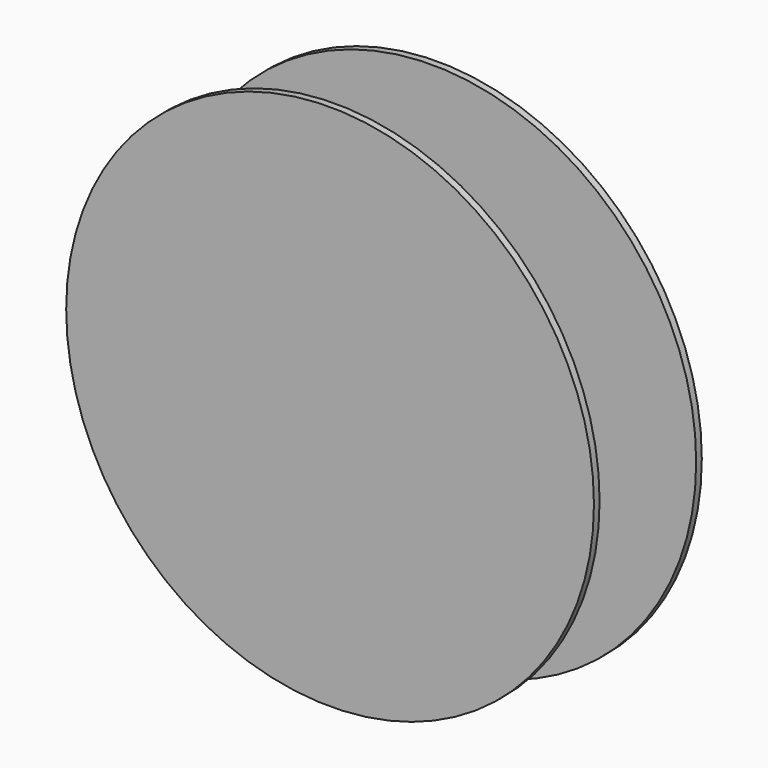
from build123d import *

# Parameters (mm, degrees)
F0_R     = 95.25
F1_DEPTH = 2.54
F3_R     = 95.25
F4_DEPTH = 2.54


with BuildPart() as f1:
    # F0 (on Front) → F1 (new body)
    with BuildSketch(Plane.XZ):
        Circle(F0_R)
    extrude(amount=F1_DEPTH)


with BuildPart() as f4:
    # F3 (on offset) → F4 (new body)
    with BuildSketch(Plane.XZ.offset(38.1)):
        with Locations((-6.418781, 0)):
            Circle(F3_R)
    extrude(amount=F4_DEPTH)


solid = Compound([f1.part, f4.part])
